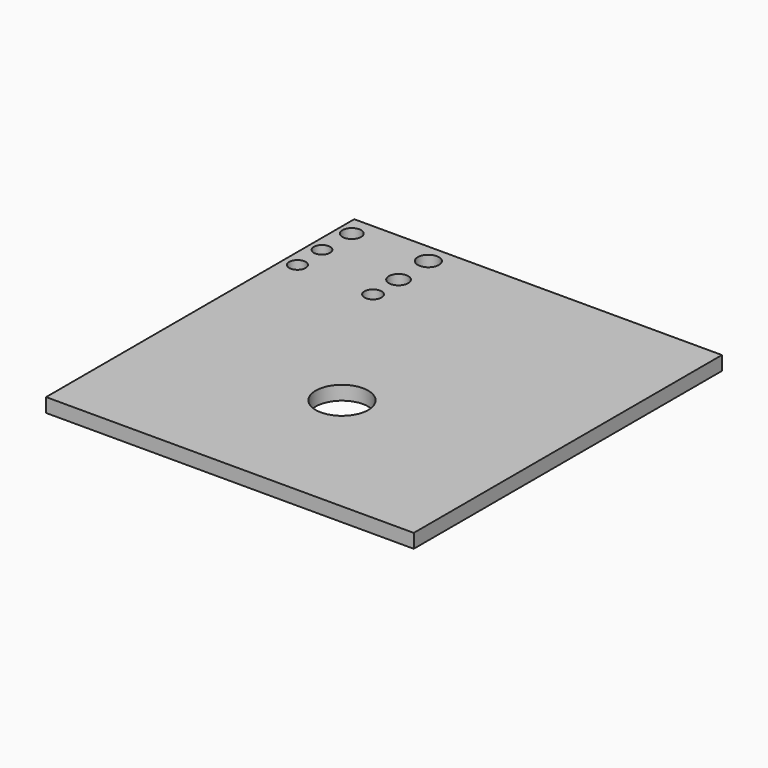
from build123d import *

# Parameters (mm, degrees)
F0_W     = 133.35
F0_H     = 139.7
F1_DEPTH = 5.08
F2_R     = 9.525
F3_DEPTH = 27.178
F4_R     = 3.381666
F4_R_2   = 2.993363
F4_R_3   = 2.952318
F4_R_4   = 3.849352
F4_R_5   = 3.508168
F4_R_6   = 3.090783
F5_DEPTH = 25.4


with BuildPart() as f1:
    # F0 (on Top) → F1 (new body)
    with BuildSketch(Plane.XY):
        Rectangle(F0_W, F0_H)
    extrude(amount=F1_DEPTH)

    # F2 (on Top) → F3 (cut)
    with BuildSketch(Plane.XY):
        with Locations((0, -19.05)):
            Circle(F2_R)
    extrude(amount=F3_DEPTH, mode=Mode.SUBTRACT)

    # F4 (on face) → F5 (cut)
    with BuildSketch(Plane.XY.offset(5.08)):
        with Locations((-61.71133, 62.55158)):
            Circle(F4_R)
        with Locations((-61.71133, 37.904385)):
            Circle(F4_R_2)
        with Locations((-62.084772, 49.481098)):
            Circle(F4_R_3)
        with Locations((-34.263328, 62.925018)):
            Circle(F4_R_4)
        with Locations((-33.703163, 48.734214)):
            Circle(F4_R_5)
        with Locations((-33.703163, 37.157502)):
            Circle(F4_R_6)
    extrude(amount=-F5_DEPTH, mode=Mode.SUBTRACT)


solid = f1.part
